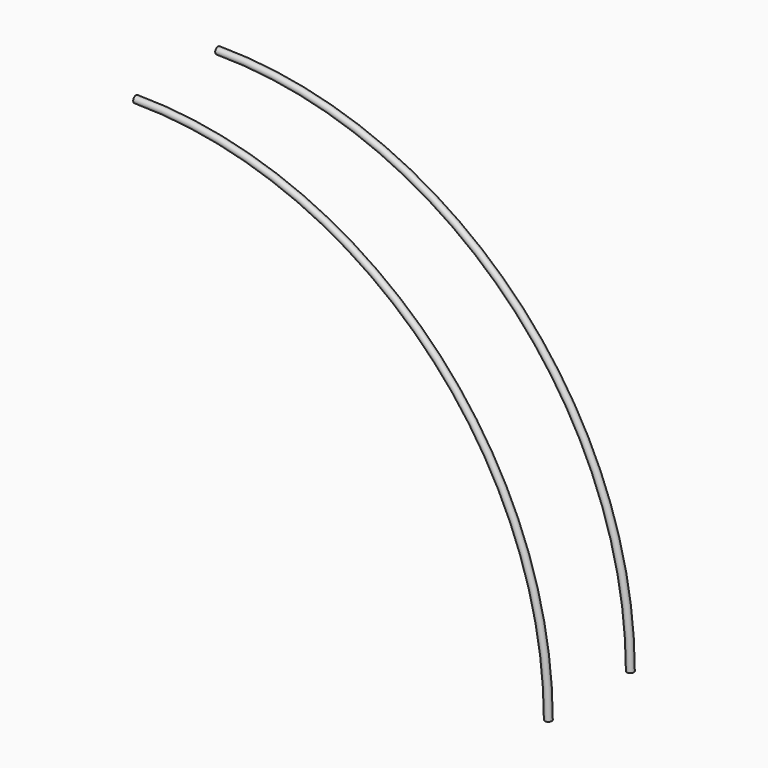
from build123d import *

# Parameters (mm, degrees)
F1_R = 7.855025


with BuildPart() as f2:
    # F2: sweep along a path in F0
    with BuildLine(Plane.XZ) as f2_path:
        ThreePointArc((0, 930), (657.609307, 657.609307), (930, 0))
    # F1 (on Right) → F2 (sweep)
    with BuildSketch(Plane.YZ):
        with Locations((0, 930.131435)):
            Circle(F1_R)
    sweep(path=f2_path.line)


with BuildPart() as f3_1:
    # F3: copy of F2
    add(f2.part.moved(Location((185, 0, 157))))


solid = Compound([f2.part, f3_1.part])
